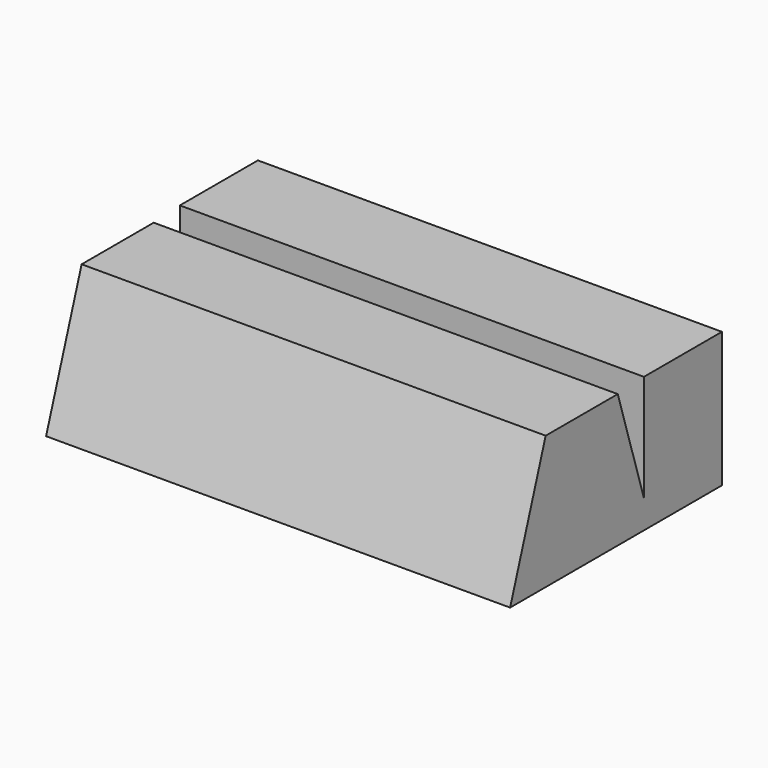
from build123d import *

# Parameters (mm, degrees)
F2_DEPTH = 137.840405


with BuildPart() as f2:
    # F1 (on face) → F2 (new body)
    with BuildSketch(Plane.YZ):
        Polygon((28.962791, 31.729326), (0, 31.729326), (0, 0), (-9.715356, 31.162471), (-36.478423, 31.162471), (-49.676657, -8.432209), (28.962791, -8.432209), align=None)
    extrude(amount=F2_DEPTH)


solid = f2.part
